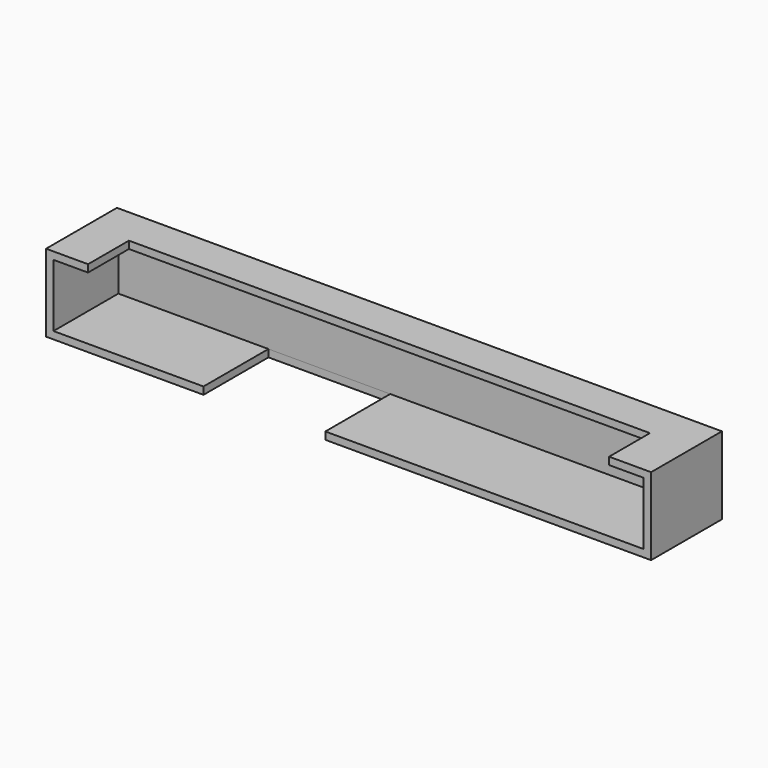
from build123d import *

# Parameters (mm, degrees)
F0_W     = 81.99882
F0_H     = 10.50036
F1_DEPTH = 12
F2_T     = -1
F3_W     = 16.51
F3_H     = 11.00074
F4_DEPTH = 1
F5_W     = 70.61962
F5_H     = 6.92
F6_DEPTH = 2.54


with BuildPart() as f1:
    # F0 (on Front) → F1 (new body)
    with BuildSketch(Plane.XZ):
        Rectangle(F0_W, F0_H)
    extrude(amount=F1_DEPTH)

    # F2
    f2_openings = [f1.faces().sort_by_distance(p)[0] for p in [
        (0, -12, 0),
    ]]
    offset(amount=F2_T, openings=f2_openings)

    # F3 (on face) → F4 (cut)
    with BuildSketch(Plane(origin=(0, 0, -5.25018), x_dir=(1, 0, 0), z_dir=(0, 0, -1))):
        with Locations((-11.40841, 6.49963)):
            Rectangle(F3_W, F3_H)
    extrude(amount=-F4_DEPTH, mode=Mode.SUBTRACT)

    # F5 (on face) → F6 (cut)
    with BuildSketch(Plane.XY.offset(5.25018)):
        with Locations((0, -8.54)):
            Rectangle(F5_W, F5_H)
    extrude(amount=-F6_DEPTH, mode=Mode.SUBTRACT)


solid = f1.part
